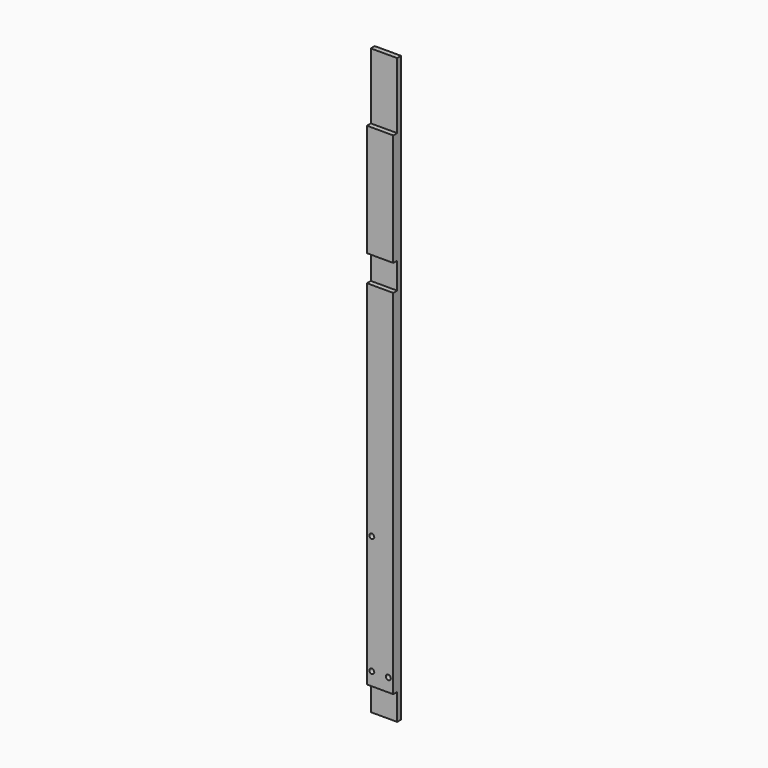
from build123d import *

# Parameters (mm, degrees)
F0_W     = 50.8
F0_H     = 19.05
F1_DEPTH = 1123.95
F2_W     = 122.435573
F2_H     = 50.8
F2_W_2   = 93.867282
F2_W_3   = 343.160421
F2_H_2   = 127
F3_DEPTH = 25.4
F4_R     = 0.79375
F5_DEPTH = 25.4
F6_R     = 4.7625
F7_DEPTH = 25.4


with BuildPart() as f1:
    # F0 (on Top) → F1 (new body)
    with BuildSketch(Plane.XY):
        Rectangle(F0_W, F0_H)
    extrude(amount=F1_DEPTH)

    # F2 (on Front) → F3 (cut)
    with BuildSketch(Plane.XZ):
        with Locations((22.446524, 25.4)):
            Rectangle(F2_W, F2_H)
        with Locations((2.720783, 755.65)):
            Rectangle(F2_W_2, F2_H)
        with Locations((-38.781822, 1060.45)):
            Rectangle(F2_W_3, F2_H_2)
    extrude(amount=F3_DEPTH, mode=Mode.SUBTRACT)

    # F4 (on Front) → F5 (cut)
    with BuildSketch(Plane.XZ):
        with Locations((9.525, 101.6)):
            Circle(F4_R)
        with Locations((9.525, 155.575)):
            Circle(F4_R)
        with Locations((9.525, 625.475)):
            Circle(F4_R)
        with Locations((9.525, 679.45)):
            Circle(F4_R)
        with Locations((-9.525, 625.475)):
            Circle(F4_R)
        with Locations((-9.525, 679.45)):
            Circle(F4_R)
        with Locations((-9.525, 101.6)):
            Circle(F4_R)
        with Locations((-9.525, 155.575)):
            Circle(F4_R)
    extrude(amount=-F5_DEPTH, mode=Mode.SUBTRACT)

    # F6 (on Front) → F7 (cut)
    with BuildSketch(Plane.XZ):
        with Locations((15.875, 76.2)):
            Circle(F6_R)
        with Locations((-15.875, 76.2)):
            Circle(F6_R)
        with Locations((-15.875, 304.8)):
            Circle(F6_R)
    extrude(amount=F7_DEPTH, mode=Mode.SUBTRACT)


solid = f1.part
